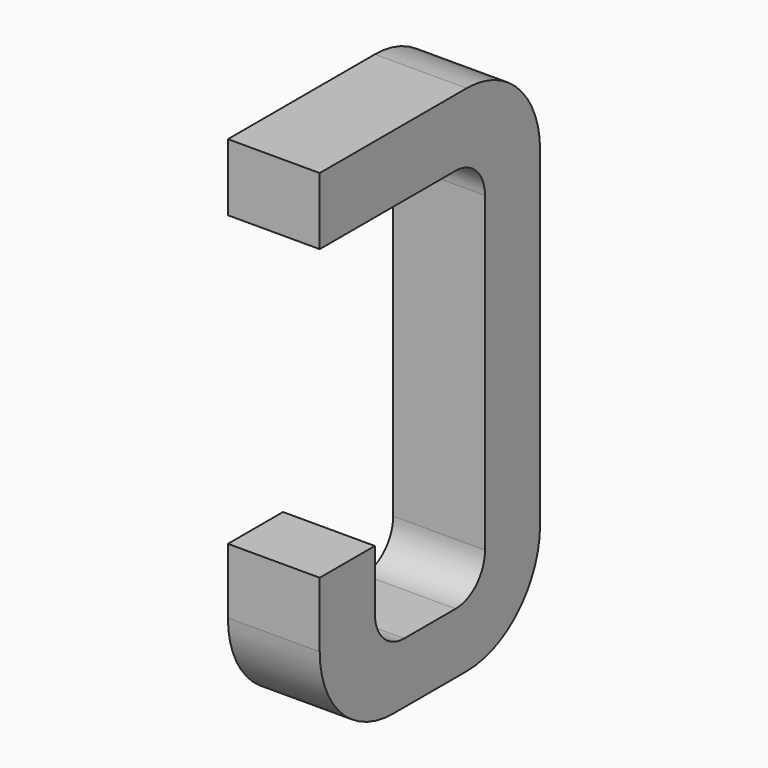
from build123d import *

# Parameters (mm, degrees)
BOX008_W     = 0.5
BOX008_H     = 1.5
BOX008_DEPTH = 2.795
FILLET017_R  = 0.5
FILLET019_R  = 0.5
FILLET016_R  = 0.5
BOX007_W     = 0.75
BOX007_H     = 2.1
BOX007_DEPTH = 1
FILLET018_R  = 0.2
FILLET020_R  = 0.2
FILLET014_R  = 0.2
FILLET015_R  = 0.2
BOX009_W     = 1
BOX009_H     = 1.575
BOX009_DEPTH = 3


with BuildPart() as part:
    # Box008 → Box008 (join)
    with BuildSketch(Plane(origin=(-0.25, 11.125, 0), x_dir=(1, 0, 0), z_dir=(0, 0, 1))):
        with Locations((0.25, 0.75)):
            Rectangle(BOX008_W, BOX008_H)
    extrude(amount=BOX008_DEPTH)

    # Fillet017
    fillet017_edges = [part.edges().sort_by_distance(p)[0] for p in [
        (0, 12.625, 0),
    ]]
    fillet(fillet017_edges, radius=FILLET017_R)

    # Fillet019
    fillet019_edges = [part.edges().sort_by_distance(p)[0] for p in [
        (0, 12.625, 2.795),
    ]]
    fillet(fillet019_edges, radius=FILLET019_R)

    # Fillet016
    fillet016_edges = [part.edges().sort_by_distance(p)[0] for p in [
        (0, 11.125, 0),
    ]]
    fillet(fillet016_edges, radius=FILLET016_R)

    # Box007 → Box007 (cut)
    with BuildSketch(Plane(origin=(-0.5, 11.5, 0.33), x_dir=(0, 1, 0), z_dir=(1, 0, 0))):
        with Locations((0.375, 1.05)):
            Rectangle(BOX007_W, BOX007_H)
    extrude(amount=BOX007_DEPTH, mode=Mode.SUBTRACT)

    # Fillet018
    fillet018_edges = [part.edges().sort_by_distance(p)[0] for p in [
        (0, 11.5, 0.33),
    ]]
    fillet(fillet018_edges, radius=FILLET018_R)

    # Fillet020
    fillet020_edges = [part.edges().sort_by_distance(p)[0] for p in [
        (0, 12.25, 0.33),
    ]]
    fillet(fillet020_edges, radius=FILLET020_R)

    # Fillet014
    fillet014_edges = [part.edges().sort_by_distance(p)[0] for p in [
        (0, 11.5, 2.43),
    ]]
    fillet(fillet014_edges, radius=FILLET014_R)

    # Fillet015
    fillet015_edges = [part.edges().sort_by_distance(p)[0] for p in [
        (0, 12.25, 2.43),
    ]]
    fillet(fillet015_edges, radius=FILLET015_R)

    # Box009 → Box009 (cut)
    with BuildSketch(Plane(origin=(-1, 11, 0.855), x_dir=(0, 1, 0), z_dir=(1, 0, 0))):
        with Locations((0.5, 0.7875)):
            Rectangle(BOX009_W, BOX009_H)
    extrude(amount=BOX009_DEPTH, mode=Mode.SUBTRACT)


with BuildPart() as part_1:
    # Body003 placement: moved
    add(part.part.moved(Location((2.54, 0, 0))))


solid = part_1.part
